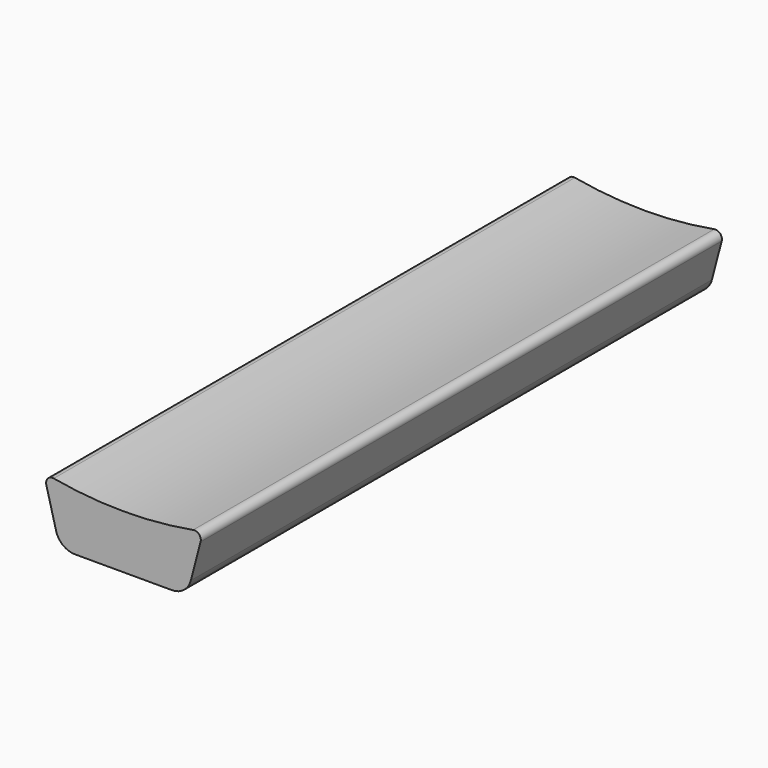
from build123d import *

# Parameters (mm, degrees)
F1_DEPTH = 200
F2_R     = 6
F3_R     = 2


with BuildPart() as f1:
    # F0 (on Front) → F1 (new body)
    with BuildSketch(Plane.XZ):
        with BuildLine():
            Line((0, 19), (5, 0))
            Line((5, 0), (44, 0))
            Line((44, 0), (49, 19))
            ThreePointArc((49, 19), (24.5, 16.472337), (0, 19))
        make_face()
    extrude(amount=F1_DEPTH)

    # F2
    f2_edges = [f1.edges().sort_by_distance(p)[0] for p in [
        (5, -100, 0),
        (44, -100, 0),
    ]]
    fillet(f2_edges, radius=F2_R)

    # F3
    f3_edges = [f1.edges().sort_by_distance(p)[0] for p in [
        (49, -100, 19),
        (0, -100, 19),
    ]]
    fillet(f3_edges, radius=F3_R)


solid = f1.part
